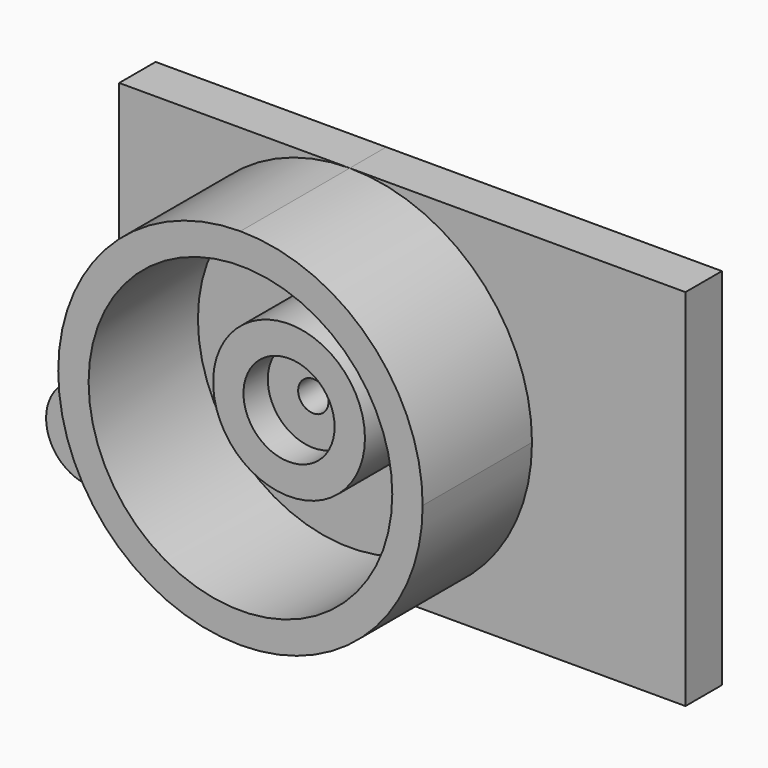
from build123d import *

# Parameters (mm, degrees)
F0_R     = 9.525
F0_R_2   = 63.5
F0_R_3   = 31.75
F1_DEPTH = 19.05
F2_DEPTH = 76.2
F0_R_4   = 19.05
F3_DEPTH = 50.8
F0_R_5   = 6.35
F4_DEPTH = 38.1


with BuildPart() as f1:
    # F0 (on Front) → F1 (new body)
    with BuildSketch(Plane.XZ):
        with BuildLine():
            Line((140.389087, -9.627948), (0, -9.627948))
            ThreePointArc((0, -9.627948), (53.881537, -31.946411), (76.2, -85.827948))
            ThreePointArc((76.2, -85.827948), (53.881537, -139.709484), (0, -162.027948))
            Line((0, -162.027948), (140.389087, -162.027948))
            Line((140.389087, -162.027948), (140.389087, -123.927948))
            Line((140.389087, -123.927948), (140.389087, -30.55766))
            Line((140.389087, -30.55766), (140.389087, -9.627948))
        make_face()
        with BuildLine():
            Line((0, -9.627948), (-96.434117, -9.627948))
            Line((-96.434117, -9.627948), (-96.434117, -37.627392))
            Line((-96.434117, -37.627392), (-96.434117, -123.927948))
            Line((-96.434117, -123.927948), (-96.434117, -162.027948))
            Line((-96.434117, -162.027948), (0, -162.027948))
            ThreePointArc((0, -162.027948), (-76.2, -85.827948), (0, -9.627948))
        make_face()
        with BuildLine():
            Line((-96.434117, -162.027948), (-96.434117, -123.927948))
            Line((-96.434117, -123.927948), (-107.95, -123.927948))
            ThreePointArc((-107.95, -123.927948), (-127, -142.977948), (-107.95, -162.027948))
            Line((-107.95, -162.027948), (-96.434117, -162.027948))
        make_face()
        with Locations((-107.95, -142.977948)):
            Circle(F0_R, mode=Mode.SUBTRACT)
        with Locations((0, -85.827948)):
            Circle(F0_R_2)
        with Locations((0, -85.827948)):
            Circle(F0_R_3, mode=Mode.SUBTRACT)
    extrude(amount=F1_DEPTH)


with BuildPart() as f2:
    # F0 (on Front) → F2 (new body)
    with BuildSketch(Plane.XZ):
        with BuildLine():
            ThreePointArc((76.2, -85.827948), (53.881537, -31.946411), (0, -9.627948))
            ThreePointArc((0, -9.627948), (-76.2, -85.827948), (0, -162.027948))
            ThreePointArc((0, -162.027948), (53.881537, -139.709484), (76.2, -85.827948))
        make_face()
        with Locations((0, -85.827948)):
            Circle(F0_R_2, mode=Mode.SUBTRACT)
    extrude(amount=F2_DEPTH)


with BuildPart() as f3:
    # F0 (on Front) → F3 (new body)
    with BuildSketch(Plane.XZ):
        with Locations((0, -85.827948)):
            Circle(F0_R_3)
        with Locations((0, -85.827948)):
            Circle(F0_R_4, mode=Mode.SUBTRACT)
    extrude(amount=F3_DEPTH)

    # F0 (on Front) → F4 (join)
    with BuildSketch(Plane.XZ):
        with Locations((0, -85.827948)):
            Circle(F0_R_4)
        with Locations((0, -85.827948)):
            Circle(F0_R_5, mode=Mode.SUBTRACT)
    extrude(amount=F4_DEPTH)


solid = Compound([f1.part, f2.part, f3.part])
